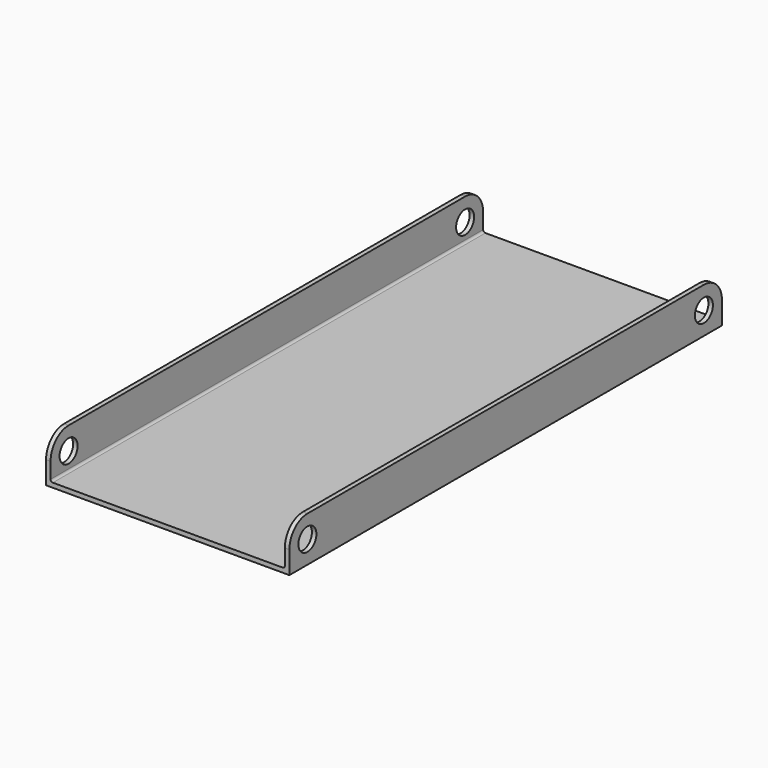
from build123d import *

# Parameters (mm, degrees)
F1_DEPTH = 152.4
F2_R     = 3.175
F3_DEPTH = 68.581


with BuildPart() as f1:
    # F0 (on Front) → F1 (new body)
    with BuildSketch(Plane.XZ):
        with BuildLine():
            Line((-68.58, 0), (0, 0))
            Line((0, 0), (0, 12.7))
            Line((0, 12.7), (-1.27, 12.7))
            Line((-1.27, 12.7), (-1.27, 1.905))
            ThreePointArc((-1.27, 1.905), (-1.455987, 1.455987), (-1.905, 1.27))
            Line((-1.905, 1.27), (-66.675, 1.27))
            ThreePointArc((-66.675, 1.27), (-67.124013, 1.455987), (-67.31, 1.905))
            Line((-67.31, 1.905), (-67.31, 12.7))
            Line((-67.31, 12.7), (-68.58, 12.7))
            Line((-68.58, 12.7), (-68.58, 0))
        make_face()
    extrude(amount=-F1_DEPTH)

    # F2 (on face) → F3 (cut, through all)
    with BuildSketch(Plane.YZ):
        with Locations((6.35, 6.35)):
            Circle(F2_R)
        with BuildLine():
            ThreePointArc((0, 6.35), (1.859872, 10.840128), (6.35, 12.7))
            Line((6.35, 12.7), (0, 12.7))
            Line((0, 12.7), (0, 6.35))
        make_face()
        with Locations((146.05, 6.35)):
            Circle(F2_R)
        with BuildLine():
            Line((152.4, 12.7), (146.05, 12.7))
            ThreePointArc((146.05, 12.7), (150.540128, 10.840128), (152.4, 6.35))
            Line((152.4, 6.35), (152.4, 12.7))
        make_face()
    extrude(amount=-F3_DEPTH, mode=Mode.SUBTRACT)


solid = f1.part
